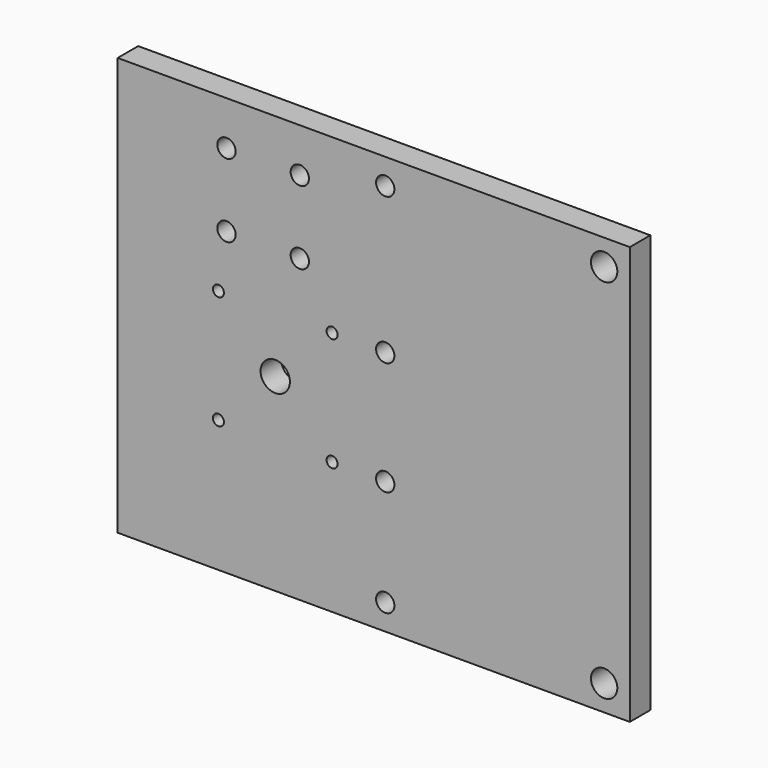
from build123d import *

# Parameters (mm, degrees)
F0_W     = 156.7
F0_H     = 114
F0_R     = 1.5
F0_R_2   = 11
F0_R_3   = 2.5
F0_R_4   = 3.6
F0_R_5   = 4
F1_DEPTH = 7
F2_R     = 2.5
F2_W     = 17.027749
F2_H     = 114
F3_DEPTH = 25


with BuildPart() as f1:
    # F0 (on Front) → F1 (new body)
    with BuildSketch(Plane.XZ):
        with Locations((-73.594777, 36.537357)):
            Rectangle(F0_W, F0_H)
        with Locations((-107.444777, 15.537357)):
            Circle(F0_R, mode=Mode.SUBTRACT)
        with Locations((-76.444777, 15.537357)):
            Circle(F0_R, mode=Mode.SUBTRACT)
        with Locations((-91.944777, 31.037357)):
            Circle(F0_R_2, mode=Mode.SUBTRACT)
        with Locations((-61.944777, -13.462643)):
            Circle(F0_R_3, mode=Mode.SUBTRACT)
        with Locations((-2.244777, -13.462643)):
            Circle(F0_R_4, mode=Mode.SUBTRACT)
        with Locations((-61.944777, 15.537357)):
            Circle(F0_R_3, mode=Mode.SUBTRACT)
        with Locations((-107.444777, 46.537357)):
            Circle(F0_R, mode=Mode.SUBTRACT)
        with Locations((-76.444777, 46.537357)):
            Circle(F0_R, mode=Mode.SUBTRACT)
        with Locations((-61.944777, 46.537357)):
            Circle(F0_R_3, mode=Mode.SUBTRACT)
        with Locations((-61.944777, 86.537357)):
            Circle(F0_R_3, mode=Mode.SUBTRACT)
        with Locations((-2.244777, 86.537357)):
            Circle(F0_R_4, mode=Mode.SUBTRACT)
        with Locations((-91.944777, 31.037357)):
            Circle(F0_R_2)
        with Locations((-91.944777, 31.037357)):
            Circle(F0_R_5, mode=Mode.SUBTRACT)
    extrude(amount=F1_DEPTH)

    # F2 (on face) → F3 (cut)
    with BuildSketch(Plane.XZ.offset(7)):
        with Locations((-105.244777, 81.537357)):
            Circle(F2_R)
        with Locations((-105.244777, 61.537357)):
            Circle(F2_R)
        with Locations((-85.244777, 61.537357)):
            Circle(F2_R)
        with Locations((-85.244777, 81.537357)):
            Circle(F2_R)
        with Locations((-143.430903, 36.537357)):
            Rectangle(F2_W, F2_H)
    extrude(amount=-F3_DEPTH, mode=Mode.SUBTRACT)


solid = f1.part
